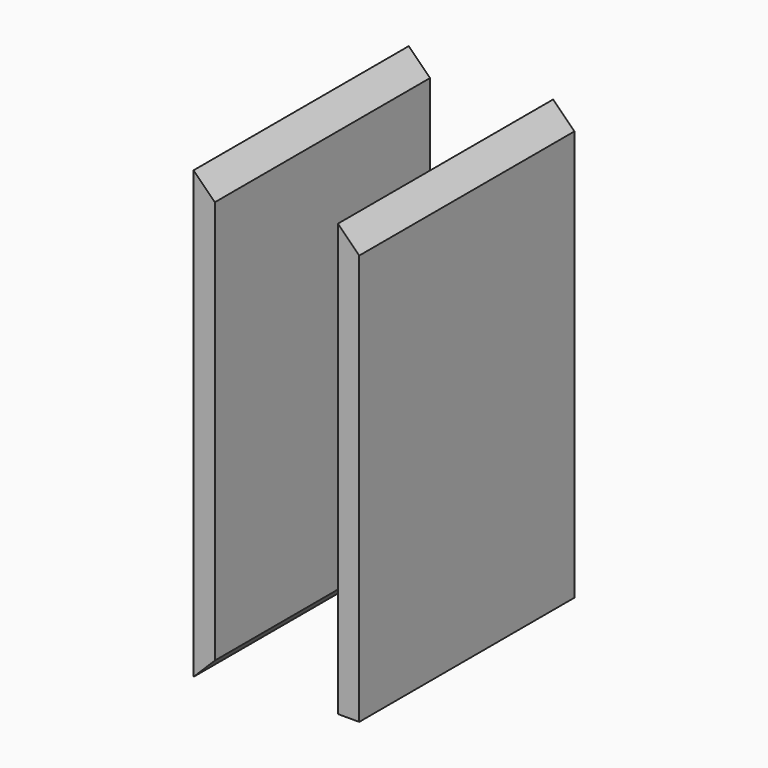
from build123d import *

# Parameters (mm, degrees)
F1_DEPTH = 241.3
F4_DEPTH = 241.3
F5_W     = 19.05
F5_H     = 12.7
F6_DEPTH = 241.301


with BuildPart() as f1:
    # F0 (on Front) → F1 (new body)
    with BuildSketch(Plane.XZ):
        Polygon((9.525, 323.93477), (-9.525, 342.98477), (-9.525, -57.06523), (9.525, -38.01523), align=None)
    extrude(amount=F1_DEPTH)


with BuildPart() as f2_1:
    # F2: copy of F1
    add(f1.part.moved(Location((129.54, 0, 0))))

    # F3 (on face) → F4 (join)
    with BuildSketch(Plane.XZ.offset(241.3)):
        Polygon((139.065, -38.01523), (120.015, -57.06523), (139.065, -57.06523), align=None)
    extrude(amount=-F4_DEPTH)

    # F5 (on face) → F6 (cut, through all)
    with BuildSketch(Plane.XZ.offset(241.3)):
        with Locations((129.54, -50.71523)):
            Rectangle(F5_W, F5_H)
    extrude(amount=-F6_DEPTH, mode=Mode.SUBTRACT)


solid = Compound([f1.part, f2_1.part])
